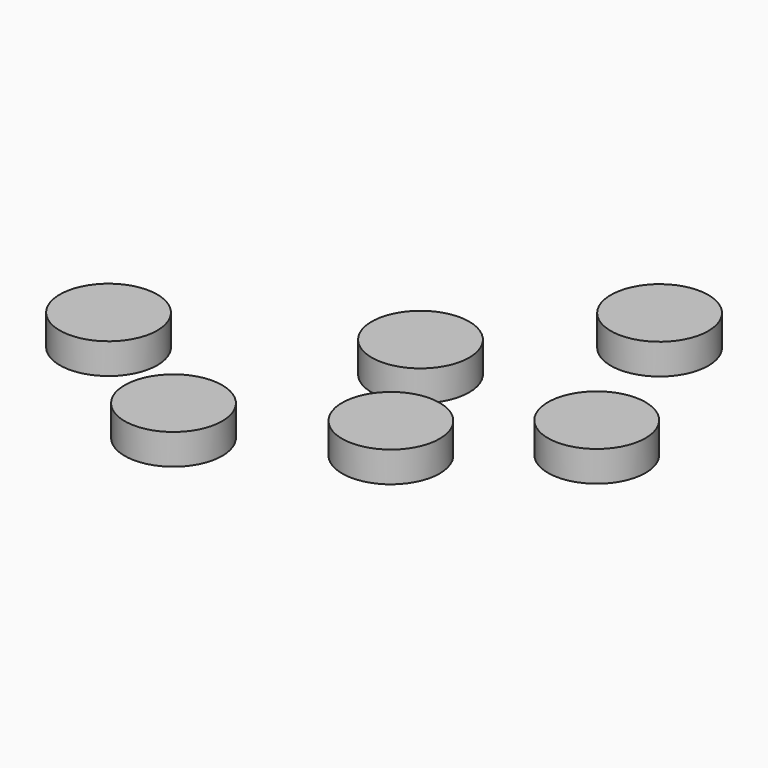
from build123d import *

# Parameters (mm, degrees)
F0_R     = 11.15
F1_DEPTH = 7


with BuildPart() as f1:
    # F0 (on Top) → F1 (new body)
    with BuildSketch(Plane.XY):
        Circle(F0_R)
        with Locations((26.901245, 34.716129)):
            Circle(F0_R)
        with Locations((-50.045326, -26.600668)):
            Circle(F0_R)
        with Locations((-19.086357, -46.739031)):
            Circle(F0_R)
        with Locations((15.479485, -27.802957)):
            Circle(F0_R)
        with Locations((44.033874, -4.658875)):
            Circle(F0_R)
    extrude(amount=F1_DEPTH)


solid = f1.part
